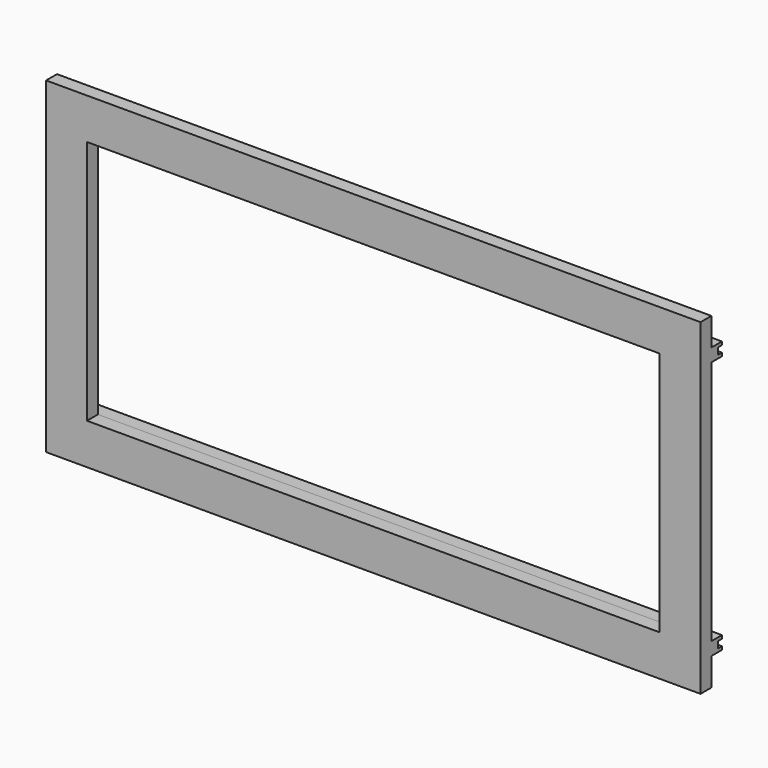
from build123d import *

# Parameters (mm, degrees)
F0_W     = 50.8
F0_H     = 25.4
F0_W_2   = 44.45
F0_H_2   = 19.05
F1_DEPTH = 1.058333
F3_DEPTH = 25.4


with BuildPart() as f1:
    # F0 (on Front) → F1 (new body)
    with BuildSketch(Plane.XZ):
        Rectangle(F0_W, F0_H)
        Rectangle(F0_W_2, F0_H_2, mode=Mode.SUBTRACT)
    extrude(amount=F1_DEPTH)

    # F2 (on Right) → F3 (join, symmetric)
    with BuildSketch(Plane.YZ):
        Polygon((0, 10.541), (0, 9.525), (1.016, 9.525), (1.016, 9.779), (0.625132, 9.779), (0.625132, 10.287), (1.016, 10.287), (1.016, 10.541), align=None)
        Polygon((0, -9.525007), (0, -10.541007), (1.016, -10.541007), (1.016, -10.287007), (0.625132, -10.287007), (0.625132, -9.779007), (1.016, -9.779007), (1.016, -9.525007), align=None)
    extrude(amount=F3_DEPTH, both=True)


solid = f1.part
